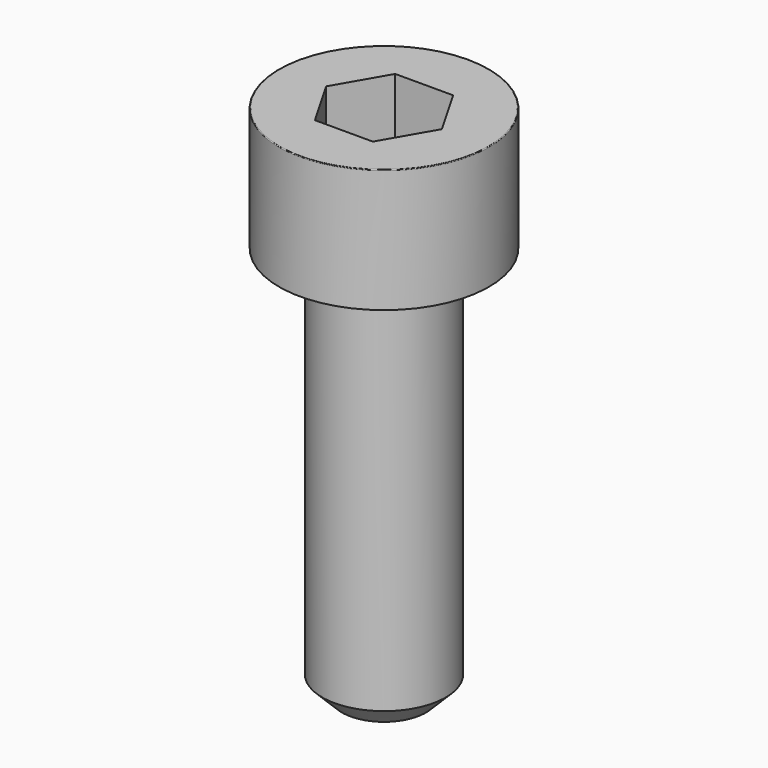
from build123d import *

# Parameters (mm, degrees)
POCKET_DEPTH = 4.06


with BuildPart() as part:
    # Sketch → Revolve (revolve)
    with BuildSketch(Plane.YZ):
        with BuildLine():
            Line((2.499, 0), (4.25, 0))
            Line((4.25, 0), (4.25, 4.97229))
            ThreePointArc((4.25, 4.97229), (4.241884, 4.991884), (4.22229, 5))
            Line((4.22229, 5), (0, 5))
            Line((0, -16), (0, 5))
            Line((1.7, -16), (0, -16))
            Line((2.5, -15.2), (1.7, -16))
            Line((2.5, -0.2), (2.5, -15.2))
            Line((2.499, 0), (2.5, -0.2))
        make_face()
    revolve(axis=Axis((0, 0, 0), (0, 0, 1)))

    # Sketch001 → Pocket (cut)
    with BuildSketch(Plane.XY.offset(5)):
        Polygon((2.344042, 0), (1.172021, 2.03), (-1.172021, 2.03), (-2.344042, 0), (-1.172021, -2.03), (1.172021, -2.03), align=None)
    extrude(amount=-POCKET_DEPTH, mode=Mode.SUBTRACT)


solid = part.part
